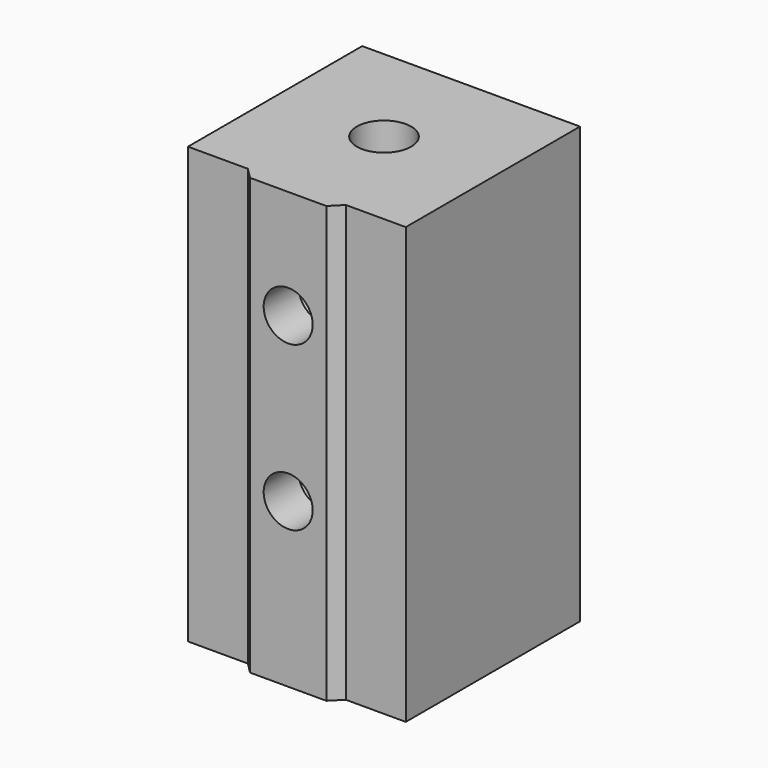
from build123d import *

# Parameters (mm, degrees)
PAD_DEPTH       = 40
SKETCH001_R     = 2.5
POCKET_DEPTH    = 40
SKETCH002_R     = 4.5
POCKET001_DEPTH = 8
SKETCH003_R     = 2.25
POCKET002_DEPTH = 22
SKETCH004_R     = 3.75
POCKET003_DEPTH = 17


with BuildPart() as part:
    # Sketch → Pad (new body)
    with BuildSketch(Plane.XY):
        Polygon((-10, -10), (-10, 10), (10, 10), (10, -10), (4.5, -10), (3.5, -11), (-3.5, -11), (-4.5, -10), align=None)
    extrude(amount=PAD_DEPTH)

    # Sketch001 → Pocket (cut)
    with BuildSketch(Plane.XY):
        Circle(SKETCH001_R)
    extrude(amount=POCKET_DEPTH, mode=Mode.SUBTRACT)

    # Sketch002 → Pocket001 (cut)
    with BuildSketch(Plane.XY):
        Circle(SKETCH002_R)
    extrude(amount=POCKET001_DEPTH, mode=Mode.SUBTRACT)

    # Sketch003 (on DatumPlane) → Pocket002 (cut)
    with BuildSketch(Plane.XZ.offset(-10)):
        with Locations((0, 15)):
            Circle(SKETCH003_R)
        with Locations((0, 30)):
            Circle(SKETCH003_R)
    extrude(amount=POCKET002_DEPTH, mode=Mode.SUBTRACT)

    # Sketch004 (on DatumPlane) → Pocket003 (cut)
    with BuildSketch(Plane.XZ.offset(-10)):
        with Locations((0, 30)):
            Circle(SKETCH004_R)
        with Locations((0, 15)):
            Circle(SKETCH004_R)
    extrude(amount=POCKET003_DEPTH, mode=Mode.SUBTRACT)


solid = part.part
